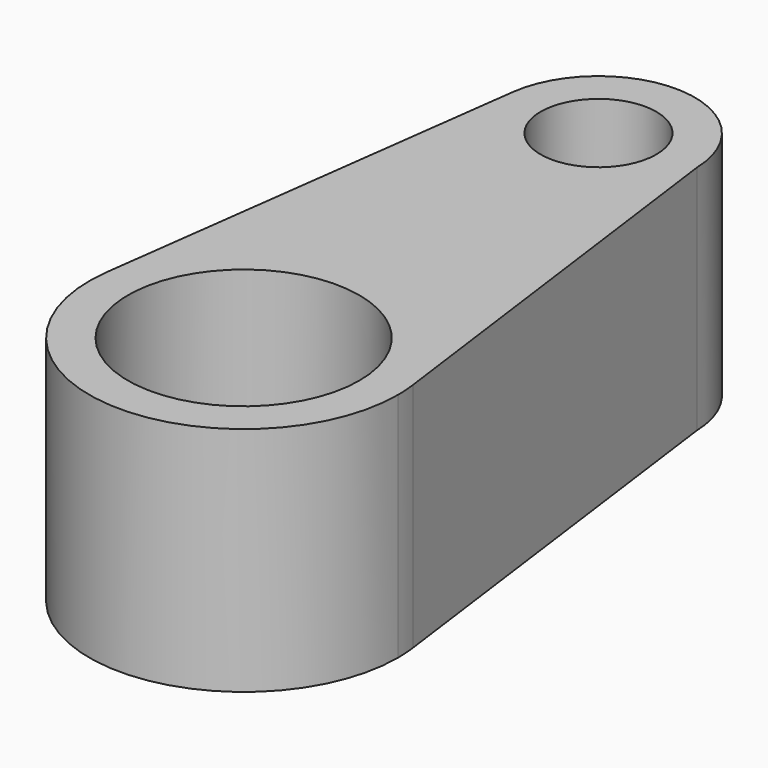
from build123d import *

# Parameters (mm, degrees)
F0_R     = 9.525
F0_R_2   = 4.7625
F1_DEPTH = 19.05


with BuildPart() as f1:
    # F0 (on Top) → F1 (new body)
    with BuildSketch(Plane.XY):
        with BuildLine():
            ThreePointArc((-12.591503, 1.656522), (-0.830036, -12.672847), (12.7, 0))
            ThreePointArc((12.7, 0), (12.672346, 0.837638), (12.589506, 1.671628))
            ThreePointArc((12.589506, 1.671628), (-0.007619, 12.699998), (-12.591503, 1.656522))
        make_face()
        Circle(F0_R, mode=Mode.SUBTRACT)
        with BuildLine():
            ThreePointArc((-12.591503, 1.656522), (-0.007619, 12.699998), (12.589506, 1.671628))
            Line((12.589506, 1.671628), (7.934531, 36.729578))
            ThreePointArc((7.934531, 36.729578), (7.936758, 36.621049), (7.9375, 36.5125))
            ThreePointArc((7.9375, 36.5125), (-0.518772, 28.591971), (-7.869689, 37.547826))
            Line((-7.869689, 37.547826), (-12.591503, 1.656522))
        make_face()
        with BuildLine():
            ThreePointArc((7.9375, 36.5125), (7.936758, 36.621049), (7.934531, 36.729578))
            ThreePointArc((7.934531, 36.729578), (0.410406, 44.439383), (-7.869689, 37.547826))
            ThreePointArc((-7.869689, 37.547826), (-0.518772, 28.591971), (7.9375, 36.5125))
        make_face()
        with Locations((0, 36.5125)):
            Circle(F0_R_2, mode=Mode.SUBTRACT)
    extrude(amount=F1_DEPTH)


solid = f1.part
